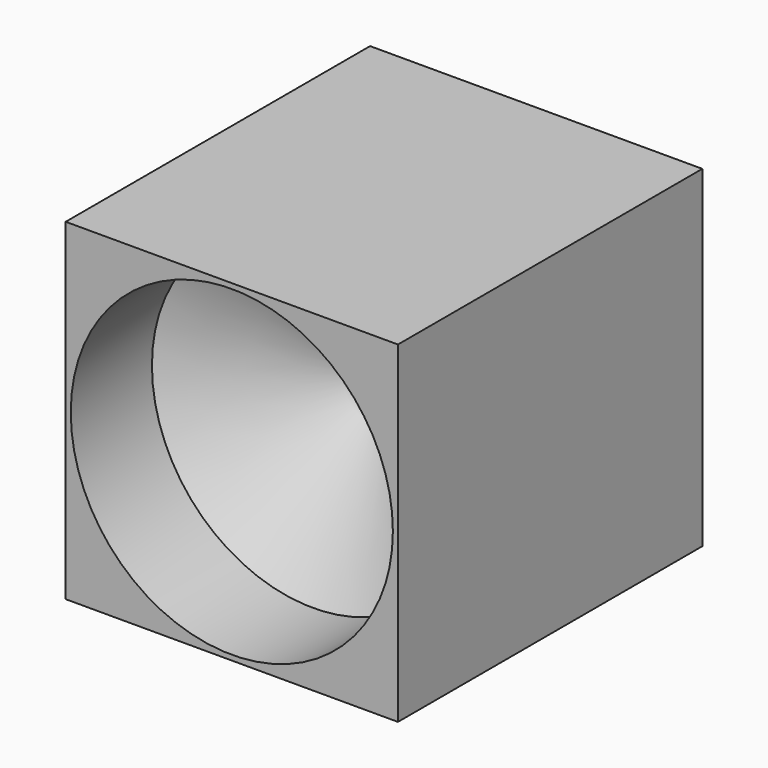
from build123d import *

# Parameters (mm, degrees)
F0_W     = 26.2
F0_H     = 26.2
F1_DEPTH = 15
F3_D     = 25.4
F3_DEPTH = 8
F3_TIP   = 7.6309298617


with BuildPart() as f1:
    # F0 (on Front) → F1 (new body, symmetric)
    with BuildSketch(Plane.XZ):
        Rectangle(F0_W, F0_H)
    extrude(amount=F1_DEPTH, both=True)

    # F3
    with Locations(Plane.XZ.offset(15)):
        with Locations((0, 0)):
            Hole(F3_D / 2, depth=F3_DEPTH)
            with Locations((0, 0, -(F3_DEPTH + F3_TIP / 2))):  # 118° drill point
                Cone(0, F3_D / 2, F3_TIP, mode=Mode.SUBTRACT)


solid = f1.part
